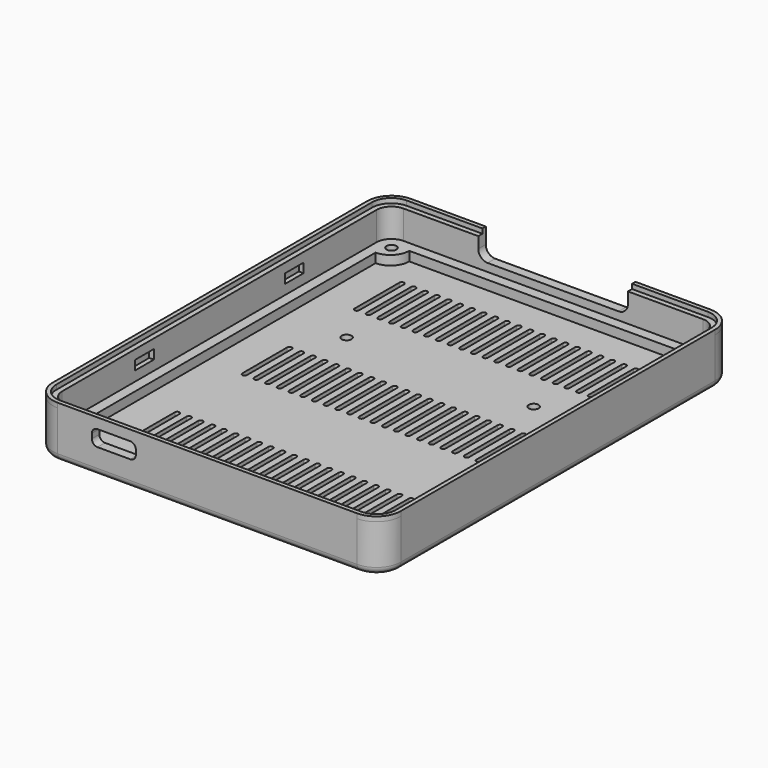
from build123d import *

# Parameters (mm, degrees)
CYLINDER004_R     = 1.05
CYLINDER004_DEPTH = 2
CYLINDER003_R     = 1.05
CYLINDER003_DEPTH = 2
BOX_W             = 1
BOX_H             = 5
BOX_DEPTH         = 2
ARRAY002_Y_COUNT  = 2
ARRAY002_Y_PITCH  = 40
ARRAY003_COUNT    = 2
PAD011_DEPTH      = 2
ARRAY001_X_COUNT  = 21
ARRAY001_X_PITCH  = 2.5
ARRAY001_Y_COUNT  = 3
ARRAY001_Y_PITCH  = 30
PAD009_DEPTH      = 2
PAD008_DEPTH      = 2
PAD010_DEPTH      = 1
SKETCH003_R       = 2.05
PAD003_DEPTH      = 1.5
SKETCH004_R       = 1.05
PAD004_DEPTH      = 4
ARRAY_X_COUNT     = 2
ARRAY_X_PITCH     = 64
ARRAY_Y_COUNT     = 2
ARRAY_Y_PITCH     = 84
PAD002_DEPTH      = 2
SKETCH001_W       = 70.4
SKETCH001_H       = 90.4
PAD001_DEPTH      = 6.1
FILLET002_R       = 3.2
SKETCH_W          = 74.4
SKETCH_H          = 94.4
PAD_DEPTH         = 10.1
FILLET_R          = 5.2
FILLET001_R       = 1.5


with BuildPart() as zylinder003:
    # Cylinder004 → Cylinder004 (new body)
    with BuildSketch(Plane(origin=(20, 0, 0), x_dir=(1, 0, 0), z_dir=(0, 0, 1))):
        Circle(CYLINDER004_R)
    extrude(amount=CYLINDER004_DEPTH)


with BuildPart() as mountholefusion:
    # Cylinder003 → Cylinder003 (new body)
    with BuildSketch(Plane(origin=(-20, 0, 0), x_dir=(1, 0, 0), z_dir=(0, 0, 1))):
        Circle(CYLINDER003_R)
    extrude(amount=CYLINDER003_DEPTH)

    # Fusion016: union Zylinder003
    add(zylinder003.part)


with BuildPart() as mountholefusion_1:
    # Fusion016 placement: moved
    add(mountholefusion.part.moved(Location((0, 15, 0))))


with BuildPart() as bottomlockarray:
    # Box → Box (new body)
    with BuildSketch(Plane(origin=(-36.2, -22.5, 6.1), x_dir=(1, 0, 0), z_dir=(0, 0, 1))):
        with Locations((0.5, 2.5)):
            Rectangle(BOX_W, BOX_H)
    extrude(amount=BOX_DEPTH)

    # Array002 Y: BottomLockArray ×2


with BuildPart() as bottomlockarray_1:
    add(bottomlockarray.part)
    with Locations(*[(0, i * ARRAY002_Y_PITCH, 0) for i in range(1, ARRAY002_Y_COUNT)]):
        add(bottomlockarray.part)

    # Array003: BottomLockArray ×2 about axis
    array003_axis = Axis((0, 0, 0), (0, 0, 1))


with BuildPart() as bottomlockarray_2:
    add(bottomlockarray_1.part)
    for i in range(1, ARRAY003_COUNT):
        add(bottomlockarray_1.part.rotate(array003_axis, i * 360 / ARRAY003_COUNT))


with BuildPart() as bottomventilationarray:
    # Sketch011 → Pad011 (new body)
    with BuildSketch(Plane.XY):
        with BuildLine():
            ThreePointArc((0.5, -24), (0, -23.5), (-0.5, -24))
            Line((-0.5, -24), (-0.5, -36))
            ThreePointArc((-0.5, -36), (0, -36.5), (0.5, -36))
            Line((0.5, -24), (0.5, -36))
        make_face()
    extrude(amount=PAD011_DEPTH)

    # Array001 X: BottomVentilationArray ×21


with BuildPart() as bottomventilationarray_1:
    add(bottomventilationarray.part)
    with Locations(*[(i * ARRAY001_X_PITCH, 0, 0) for i in range(1, ARRAY001_X_COUNT)]):
        add(bottomventilationarray.part)

    # Array001 Y: BottomVentilationArray ×3


with BuildPart() as bottomventilationarray_2:
    add(bottomventilationarray_1.part)
    with Locations(*[(0, i * ARRAY001_Y_PITCH, 0) for i in range(1, ARRAY001_Y_COUNT)]):
        add(bottomventilationarray_1.part)


with BuildPart() as bottomventilationarray_3:
    # Array001 placement: moved
    add(bottomventilationarray_2.part.moved(Location((-25, 0, 0))))


with BuildPart() as connectorcutoutbody:
    # Sketch009 → Pad009 (new body)
    with BuildSketch(Plane.XZ):
        with BuildLine():
            Line((-14, 6), (14, 6))
            ThreePointArc((16, 4), (15.414214, 5.414214), (14, 6))
            Line((16, 4), (16, -4))
            ThreePointArc((14, -6), (15.414214, -5.414214), (16, -4))
            Line((14, -6), (-14, -6))
            ThreePointArc((-16, -4), (-15.414214, -5.414214), (-14, -6))
            Line((-16, -4), (-16, 4))
            ThreePointArc((-14, 6), (-15.414214, 5.414214), (-16, 4))
        make_face()
    extrude(amount=PAD009_DEPTH)


with BuildPart() as connectorcutoutbody_1:
    # Body008 placement: moved
    add(connectorcutoutbody.part.moved(Location((0, 47.2, 11.7))))


with BuildPart() as connectorsfusion:
    # Sketch008 → Pad008 (new body)
    with BuildSketch(Plane.XZ):
        with BuildLine():
            Line((-3.5, -1.7), (3.5, -1.7))
            ThreePointArc((3.5, -1.7), (4.348528, -1.348528), (4.7, -0.5))
            Line((4.7, -0.5), (4.7, 0.5))
            ThreePointArc((4.7, 0.5), (4.348528, 1.348528), (3.5, 1.7))
            Line((3.5, 1.7), (-3.5, 1.7))
            ThreePointArc((-3.5, 1.7), (-4.348528, 1.348528), (-4.7, 0.5))
            Line((-4.7, 0.5), (-4.7, -0.5))
            ThreePointArc((-4.7, -0.5), (-4.348528, -1.348528), (-3.5, -1.7))
        make_face()
    extrude(amount=PAD008_DEPTH)


with BuildPart() as connectorsfusion_1:
    # Body007 placement: moved
    add(connectorsfusion.part.moved(Location((-20, -45.2, 7.2))))

    # Fusion001: union ConnectorCutoutBody
    add(connectorcutoutbody_1.part)


with BuildPart() as bottomjointbody:
    # Sketch010 → Pad010 (new body)
    with BuildSketch(Plane.XY):
        with BuildLine():
            Line((-32, 47.2), (32, 47.2))
            ThreePointArc((37.2, 42), (35.676955, 45.676955), (32, 47.2))
            Line((37.2, 42), (37.2, -42))
            ThreePointArc((32, -47.2), (35.676955, -45.676955), (37.2, -42))
            Line((32, -47.2), (-32, -47.2))
            ThreePointArc((-37.2, -42), (-35.676955, -45.676955), (-32, -47.2))
            Line((-37.2, -42), (-37.2, 42))
            ThreePointArc((-32, 47.2), (-35.676955, 45.676955), (-37.2, 42))
        make_face()
        with BuildLine():
            Line((-32.2, 46.3), (32.2, 46.3))
            ThreePointArc((36.3, 42.2), (35.099138, 45.099138), (32.2, 46.3))
            Line((36.3, 42.2), (36.3, -42.2))
            ThreePointArc((32.2, -46.3), (35.099138, -45.099138), (36.3, -42.2))
            Line((32.2, -46.3), (-32.2, -46.3))
            ThreePointArc((-36.3, -42.2), (-35.099138, -45.099138), (-32.2, -46.3))
            Line((-36.3, -42.2), (-36.3, 42.2))
            ThreePointArc((-32.2, 46.3), (-35.099138, 45.099138), (-36.3, 42.2))
        make_face(mode=Mode.SUBTRACT)
    extrude(amount=PAD010_DEPTH)


with BuildPart() as bottomjointbody_1:
    # Body009 placement: moved
    add(bottomjointbody.part.moved(Location((0, 0, 10.1))))


with BuildPart() as screwarray:
    # Sketch003 → Pad003 (new body)
    with BuildSketch(Plane.XY):
        Circle(SKETCH003_R)
    extrude(amount=PAD003_DEPTH)

    # Sketch004 (on Face3 of Pad003) → Pad004 (join)
    with BuildSketch(Plane.XY.offset(1.5)):
        Circle(SKETCH004_R)
    extrude(amount=PAD004_DEPTH)

    # Array X: ScrewArray ×2


with BuildPart() as screwarray_1:
    add(screwarray.part)
    with Locations(*[(i * ARRAY_X_PITCH, 0, 0) for i in range(1, ARRAY_X_COUNT)]):
        add(screwarray.part)

    # Array Y: ScrewArray ×2


with BuildPart() as screwarray_2:
    add(screwarray_1.part)
    with Locations(*[(0, i * ARRAY_Y_PITCH, 0) for i in range(1, ARRAY_Y_COUNT)]):
        add(screwarray_1.part)


with BuildPart() as screwarray_3:
    # Array placement: moved
    add(screwarray_2.part.moved(Location((-32, -42, 0))))


with BuildPart() as bottomsinkbody:
    # Sketch002 → Pad002 (new body)
    with BuildSketch(Plane.XY):
        with BuildLine():
            ThreePointArc((29, 43), (30.171573, 40.171573), (33, 39))
            Line((33, 39), (33, -39))
            ThreePointArc((33, -39), (30.171573, -40.171573), (29, -43))
            Line((29, -43), (-29, -43))
            ThreePointArc((-29, -43), (-30.171573, -40.171573), (-33, -39))
            Line((-33, -39), (-33, 39))
            ThreePointArc((-33, 39), (-30.171573, 40.171573), (-29, 43))
            Line((-29, 43), (29, 43))
        make_face()
    extrude(amount=PAD002_DEPTH)


with BuildPart() as bottomsinkbody_1:
    # Body002 placement: moved
    add(bottomsinkbody.part.moved(Location((0, 0, 2))))


with BuildPart() as boardcutoutbody:
    # Sketch001 → Pad001 (new body)
    with BuildSketch(Plane.XY):
        Rectangle(SKETCH001_W, SKETCH001_H)
    extrude(amount=PAD001_DEPTH)

    # Fillet002
    fillet002_edges = [boardcutoutbody.edges().sort_by_distance(p)[0] for p in [
        (-35.2, -45.2, 3.05),
        (35.2, -45.2, 3.05),
        (35.2, 45.2, 3.05),
        (-35.2, 45.2, 3.05),
    ]]
    fillet(fillet002_edges, radius=FILLET002_R)


with BuildPart() as boardcutoutbody_1:
    # Body001 placement: moved
    add(boardcutoutbody.part.moved(Location((0, 0, 4))))


with BuildPart() as bottommountholecut:
    # Sketch → Pad (new body)
    with BuildSketch(Plane.XY):
        Rectangle(SKETCH_W, SKETCH_H)
    extrude(amount=PAD_DEPTH)

    # Fillet
    fillet_edges = [bottommountholecut.edges().sort_by_distance(p)[0] for p in [
        (-37.2, -47.2, 5.05),
        (37.2, -47.2, 5.05),
        (37.2, 47.2, 5.05),
        (-37.2, 47.2, 5.05),
    ]]
    fillet(fillet_edges, radius=FILLET_R)

    # Fillet001
    fillet001_edges = [bottommountholecut.edges().sort_by_distance(p)[0] for p in [
        (-35.676955, -45.676955, 0),
        (35.676955, -45.676955, 0),
        (-35.676955, 45.676955, 0),
        (35.676955, 45.676955, 0),
    ]]
    fillet(fillet001_edges, radius=FILLET001_R)

    # Cut: cut BoardCutoutBody
    add(boardcutoutbody_1.part, mode=Mode.SUBTRACT)

    # Cut001: cut BottomSinkBody
    add(bottomsinkbody_1.part, mode=Mode.SUBTRACT)

    # Cut002: cut ScrewArray
    add(screwarray_3.part, mode=Mode.SUBTRACT)

    # Fusion002: union BottomJointBody
    add(bottomjointbody_1.part)

    # Cut003: cut ConnectorsFusion
    add(connectorsfusion_1.part, mode=Mode.SUBTRACT)

    # Cut004: cut BottomVentilationArray
    add(bottomventilationarray_3.part, mode=Mode.SUBTRACT)

    # Cut005: cut BottomLockArray
    add(bottomlockarray_2.part, mode=Mode.SUBTRACT)

    # Cut015: cut MountholeFusion
    add(mountholefusion_1.part, mode=Mode.SUBTRACT)


solid = bottommountholecut.part
